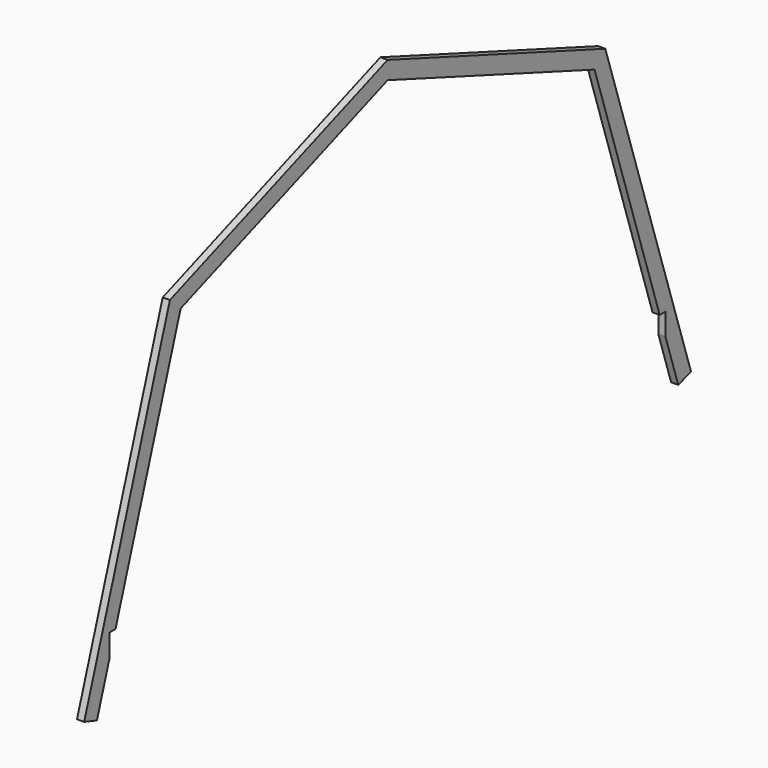
from build123d import *

# Parameters (mm, degrees)
F1_DEPTH = 38.1


with BuildPart() as f1:
    # F0 (on Right) → F1 (new body)
    with BuildSketch(Plane.YZ):
        Polygon((0, 1923.601512), (0, 1828.8), (1371.6, 1320.8), (1803.4, 0), (1841.5, 0), (1841.5, -116.541176), (1926.532926, -376.64189), (2011.03196, -349.017206), (1442.75274, 1389.248645), align=None)
        Polygon((-1371.6, 1320.8), (0, 1828.8), (0, 1923.601512), (-1442.75274, 1389.248645), (-2011.03196, -349.017206), (-1926.532926, -376.64189), (-1841.5, -116.541176), (-1841.5, 0), (-1803.4, 0), align=None)
    extrude(amount=F1_DEPTH)


solid = f1.part
